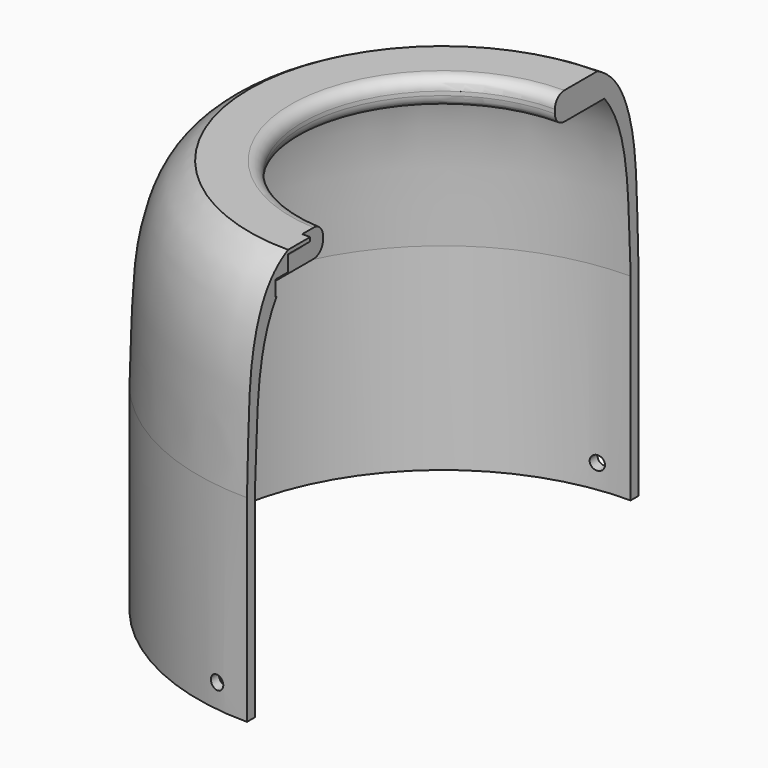
from build123d import *

# Parameters (mm, degrees)
F1_ANGLE_BACK = 90
F1_ANGLE      = 180
F3_DEPTH      = 49
F4_DEPTH      = 42
F5_DEPTH      = 53
F6_R          = 1.75
F7_DEPTH      = 62.5


with BuildPart() as f1:
    # F0 (on Front) → F1 (revolve)
    with BuildSketch(Plane.XZ, mode=Mode.PRIVATE) as f1_sk:
        with BuildLine():
            ThreePointArc((-35.5, 47), (-36.3786796564, 49.1213203436), (-38.5, 50))
            Line((-38.5, 50), (-49, 50))
            add(Edge.make_bspline(
                [(-49, 50), (-50.0905438599, 49.4592544488), (-53.0493875637, 47.4989733534), (-57.4486951492, 41.931344871), (-61.5763053799, 28.0443008729), (-61.4881986154, 14.5014666819), (-62, 0)],
                knots=[0, 0, 0, 0, 0.1531073754, 0.3436852098, 0.6019385566, 1, 1, 1, 1], degree=3))
            Line((-62, 0), (-62, -50))
            Line((-62, -50), (-59.5, -50))
            Line((-59.5, -50), (-59.5, 0))
            add(Edge.make_bspline(
                [(-51.1955396277, 43), (-59.7999691963, 32.3488041759), (-58.4857873619, 15.5563373119), (-59.5, 0)],
                knots=[0, 0, 0, 0, 43.7945665817, 43.7945665817, 43.7945665817, 43.7945665817], degree=3))
            Line((-51.1955396277, 43), (-38.5, 43))
            ThreePointArc((-38.5, 43), (-36.3786796564, 43.8786796564), (-35.5, 46))
            Line((-35.5, 46), (-35.5, 47))
        make_face()
    revolve(f1_sk.sketch.rotate(Axis((0, 0, -47.5967168808), (0, 0, 1)), -F1_ANGLE_BACK), axis=Axis((0, 0, -47.5967168808), (0, 0, 1)), revolution_arc=F1_ANGLE)

    # F2 (on Front) → F3 (cut)
    with BuildSketch(Plane.XZ):
        with BuildLine():
            ThreePointArc((0, 45), (1.4142135624, 45.5857864376), (2, 47))
            ThreePointArc((2, 47), (1.4142135624, 48.4142135624), (0, 49))
            ThreePointArc((0, 49), (-1.3909130574, 48.4371363424), (-1.998931704, 47.0653608667))
            Line((-1.998931704, 47.0653608667), (-1.998931704, 46.9346391333))
            ThreePointArc((-1.998931704, 46.9346391333), (-1.3909130574, 45.5628636576), (0, 45))
        make_face()
    extrude(amount=F3_DEPTH, mode=Mode.SUBTRACT)

    # F2 (on Front) → F4 (cut)
    with BuildSketch(Plane.XZ):
        with BuildLine():
            ThreePointArc((-1.998931704, 47.0653608667), (-1.3909130574, 48.4371363424), (0, 49))
            Line((0, 49), (0, 50.3604523001))
            Line((0, 50.3604523001), (-1.998931704, 50.3604523001))
            Line((-1.998931704, 50.3604523001), (-1.998931704, 47.0653608667))
        make_face()
    extrude(amount=F4_DEPTH, mode=Mode.SUBTRACT)

    # F2 (on Front) → F5 (cut)
    with BuildSketch(Plane.XZ):
        with BuildLine():
            Line((0, 41.0653608667), (0, 45))
            ThreePointArc((0, 45), (-1.3909130574, 45.5628636576), (-1.998931704, 46.9346391333))
            Line((-1.998931704, 46.9346391333), (-1.998931704, 41.0653608667))
            Line((-1.998931704, 41.0653608667), (0, 41.0653608667))
        make_face()
    extrude(amount=F5_DEPTH, mode=Mode.SUBTRACT)

    # F6 (on Front) → F7 (cut, symmetric)
    with BuildSketch(Plane.XZ):
        with Locations((-8, -44)):
            Circle(F6_R)
    extrude(amount=F7_DEPTH, both=True, mode=Mode.SUBTRACT)


solid = f1.part
